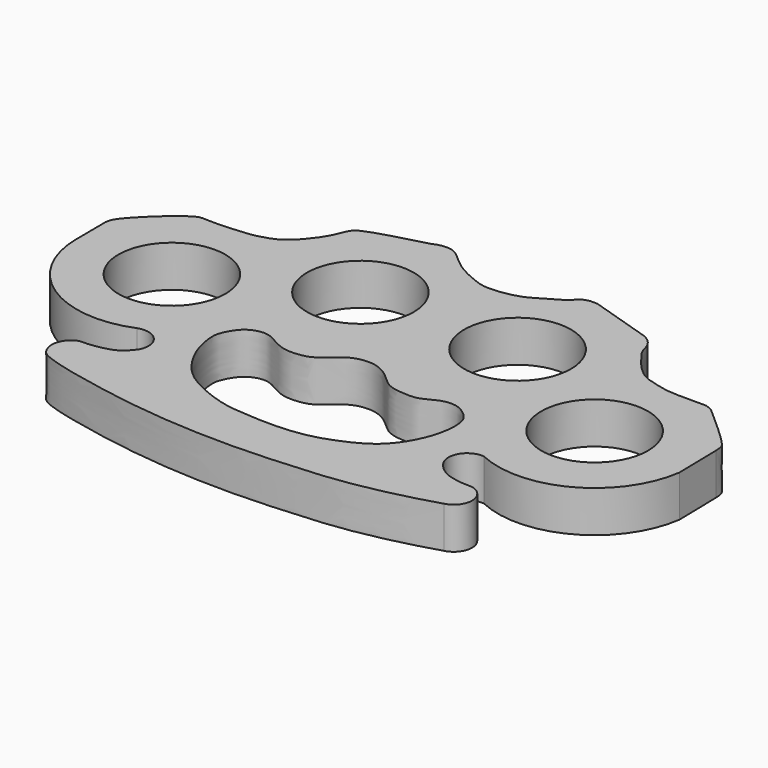
from build123d import *

# Parameters (mm, degrees)
F0_R     = 3.8567912685
F1_DEPTH = 3


with BuildPart() as f1:
    # F0 (on Top) → F1 (new body)
    with BuildSketch(Plane.XY):
        with BuildLine():
            ThreePointArc((-25.9771526895, 21.0119271317), (-19.6999655733, 21.2022285467), (-16.115821898, 26.3590887189))
            add(Edge.make_bspline(
                [(-16.115821898, 26.3590887189), (-16.1384263386, 27.4832521876), (-16.1610307793, 28.6074156562), (-16.1836352199, 29.7315791249)],
                knots=[0, 0, 0, 0, 3.3731721251, 3.3731721251, 3.3731721251, 3.3731721251], degree=3))
            add(Edge.make_bspline(
                [(-19.3007439375, 33.2715213299), (-18.0700993522, 32.1804676824), (-16.4255208402, 30.722432271), (-16.2133102596, 30.2324466098), (-16.1936377552, 29.9004060163), (-16.1836352199, 29.7315791249)],
                knots=[0, 0, 0, 0, 0.5937260104, 0.793428948, 1, 1, 1, 1], degree=3))
            add(Edge.make_bspline(
                [(-20.0515559807, 33.6875090438), (-19.916029695, 33.64699975), (-19.6412974963, 33.5648813084), (-19.4152708867, 33.3701772461), (-19.3007439375, 33.2715213299)],
                knots=[0, 0, 0, 0, 0.4933032469, 1, 1, 1, 1], degree=3))
            add(Edge.make_bspline(
                [(-22.8777279155, 33.7340211573), (-22.8285598176, 33.7342372438), (-22.3839427912, 33.7440973109), (-22.6056464016, 33.6609818041), (-20.0515559807, 33.6875090438)],
                knots=[0, 0, 0, 0, 0.222543604, 1, 1, 1, 1], degree=3))
            add(Edge.make_bspline(
                [(-28.0318181277, 38.1289668131), (-27.885579503, 38.0419167178), (-27.5717684918, 37.8558424276), (-27.1679861093, 37.3170411042), (-27.0636841023, 36.5993951411), (-26.5298108295, 35.9438109103), (-26.04259258, 35.2510476492), (-25.145599189, 34.3878453458), (-24.4156679301, 34.0908360657), (-23.6478093767, 33.8971786822), (-23.1120710748, 33.7644619594), (-22.8777279155, 33.7340211573)],
                knots=[0, 0, 0, 0, 0.0910051711, 0.1916958438, 0.2974400571, 0.4103444103, 0.5280405053, 0.6665276493, 0.7778500412, 0.8892103184, 1, 1, 1, 1], degree=3))
            Line((-28.0318181277, 38.1289668131), (-32.5968787074, 39.569105953))
            add(Edge.make_bspline(
                [(-35.3841260076, 38.1797887385), (-35.2615186276, 38.2435370226), (-34.9844024263, 38.387620375), (-34.3866068151, 38.7488474108), (-33.9578831384, 39.1055711589), (-33.7051209205, 39.4113621533), (-33.1889779829, 39.6145255131), (-32.7987523294, 39.5845915506), (-32.5968787074, 39.569105953)],
                knots=[0, 0, 0, 0, 0.1525987544, 0.3449024617, 0.5158873423, 0.6576886383, 0.8229136557, 1, 1, 1, 1], degree=3))
            add(Edge.make_bspline(
                [(-37.7446487546, 37.2827909887), (-37.5229239713, 37.3143557814), (-37.0407961569, 37.3829916113), (-36.1166488042, 37.7099439749), (-35.6240153609, 38.0259221872), (-35.3841260076, 38.1797887385)],
                knots=[0, 0, 0, 0, 0.3040297085, 0.6610951502, 1, 1, 1, 1], degree=3))
            add(Edge.make_bspline(
                [(-44.5660054684, 39.4146591425), (-44.3851368945, 39.4912636148), (-43.9849643088, 39.6607513766), (-42.9929451712, 39.6761147418), (-42.2377125029, 38.9596352111), (-41.2823053684, 38.1606793633), (-40.0529586964, 37.587055039), (-38.9572544588, 37.1608839563), (-38.1512341556, 37.2419156906), (-37.7446487546, 37.2827909887)],
                knots=[0, 0, 0, 0, 0.1094903172, 0.2422478511, 0.3814140014, 0.5370426705, 0.6988857374, 0.8481072217, 1, 1, 1, 1], degree=3))
            add(Edge.make_bspline(
                [(-60.5267161619, 30.008670075), (-60.5054835059, 30.2072237005), (-60.4351787479, 30.8646668696), (-57.0252366374, 33.9905779981), (-56.2763268445, 33.727376356), (-53.3958604186, 33.9080747099), (-52.6275539857, 34.0699431128), (-51.3123233921, 34.4727198584), (-50.2037704732, 35.7125629269), (-49.4870189281, 36.7774745073), (-49.1603036363, 37.8017794669), (-48.5566947453, 38.352468399), (-46.2242642081, 38.9732849935), (-44.5660054684, 39.4146591425)],
                knots=[0, 0, 0, 0, 0.0643762702, 0.2131602433, 0.2815210417, 0.3993643819, 0.4669000597, 0.5473029309, 0.6398144475, 0.722213966, 0.7933014634, 0.8530461468, 1, 1, 1, 1], degree=3))
            Line((-60.5267161619, 30.008670075), (-60.5061873794, 27.338899672))
            ThreePointArc((-60.5061873794, 27.338899672), (-57.4466231264, 21.6677325566), (-51.0362417716, 21.0119271317))
            ThreePointArc((-51.0362417716, 21.0119271317), (-49.501373663, 20.6133707527), (-49.3467085229, 19.0351610099))
            add(Edge.make_bspline(
                [(-49.3467085229, 19.0351610099), (-49.5461026549, 18.7836147364), (-49.9576655268, 18.2644063441), (-50.9515585522, 17.9005647956), (-52.1604289393, 17.7300941419), (-52.5948073856, 17.8107014442), (-53.1691975047, 17.4551415002), (-53.4467682035, 16.9887624586), (-53.5982596637, 16.4382538731), (-53.3624310439, 15.5930035036), (-52.5504810074, 14.8906956293), (-45.8015294803, 13.4854087449), (-40.5430124931, 13.1192482375), (-36.837366002, 13.1171807541), (-33.5826657841, 13.3261401584), (-30.2809056664, 13.5589090137), (-26.4896114415, 14.3688915818), (-24.8504029883, 14.863565011), (-24.1247480553, 15.0825501031)],
                knots=[0, 0, 0, 0, 0.0445148545, 0.0918816475, 0.1417631119, 0.1717647731, 0.2075518584, 0.2411338, 0.2751609932, 0.3154346714, 0.3592952395, 0.4773422196, 0.5869501259, 0.6733017378, 0.7548555211, 0.8388324969, 0.9286533733, 1, 1, 1, 1], degree=3))
            ThreePointArc((-24.1247480553, 15.0825501031), (-23.1118393247, 16.2623553277), (-23.9175000976, 17.5923309603))
            add(Edge.make_bspline(
                [(-25.5061425269, 17.7989043295), (-25.492587098, 17.7925584999), (-25.4572364145, 17.776009454), (-25.3268255567, 17.7601333929), (-25.0326253125, 17.7109308561), (-24.770787542, 17.7013283965), (-24.5322197006, 17.6948261153), (-24.3195460403, 17.6740095308), (-24.0917338654, 17.6780620928), (-23.9740334374, 17.6201479978), (-23.9175000976, 17.5923309603)],
                knots=[0, 0, 0, 0, 0.0629603965, 0.1641920045, 0.3211650011, 0.4700045892, 0.6081280609, 0.7406986712, 0.8754535529, 1, 1, 1, 1], degree=3))
            ThreePointArc((-25.5061425269, 17.7989043295), (-26.5035094621, 18.1834858334), (-27.2496449406, 18.9489435947))
            ThreePointArc((-27.2496449406, 18.9489435947), (-27.2530988173, 20.37501597), (-25.9771526895, 21.0119271317))
        make_face()
        with BuildLine():
            add(Edge.make_bspline(
                [(-40.9188978374, 24.5378706604), (-40.5214367804, 24.8004175443), (-39.6784853743, 25.679674624), (-38.6154101374, 25.996122209), (-37.5457359878, 25.9435576042), (-36.5072236207, 25.3258213354), (-35.5984325136, 24.321477237), (-34.3262790868, 24.1762888313), (-33.212512285, 24.1486128862), (-32.1328688946, 24.9144261095), (-31.001918463, 24.9422124058), (-30.2868408826, 24.5055966896), (-29.5301401791, 23.8105579818), (-29.5089181813, 22.153833793), (-30.0616433092, 20.3555678954), (-31.3698891104, 18.3576683594), (-33.6379646008, 17.2958902021), (-35.405718021, 16.7068464226), (-37.7172124328, 16.517888924), (-39.7589006408, 16.6460317587), (-41.5397504564, 16.7883809791), (-43.8456151451, 17.6809377325), (-45.5224537429, 18.7920876938), (-46.8585554102, 20.9991288754), (-47.1322460782, 22.783180438), (-47.0400590581, 23.3957378224), (-46.6801819108, 24.1533142459), (-46.0949752385, 24.8633115879), (-44.9049135755, 25.1826774557), (-44.0134678271, 24.6615383802), (-42.9911906834, 24.1130565002), (-41.7672174564, 24.1887990614), (-41.2165158248, 24.3412761166), (-40.9188978374, 24.5378706604)],
                knots=[0, 0, 0, 0, 0.03499993, 0.0634696348, 0.0907755778, 0.1203706211, 0.1515875988, 0.1816158762, 0.2099730011, 0.2407204059, 0.2687096751, 0.2931004479, 0.3194401412, 0.3531626374, 0.3907232746, 0.4322135057, 0.4745858988, 0.5118967714, 0.5529999067, 0.5918239383, 0.6281877857, 0.6703371211, 0.7090478657, 0.7525835495, 0.7883248419, 0.8091650548, 0.8333758949, 0.859411977, 0.8881433586, 0.9152976648, 0.9444550648, 0.9737921275, 1, 1, 1, 1], degree=3))
        make_face(mode=Mode.SUBTRACT)
        with Locations((-53.6222904921, 27.3918323219)):
            Circle(F0_R, mode=Mode.SUBTRACT)
        with Locations((-43.9356975257, 32.3145240545)):
            Circle(F0_R, mode=Mode.SUBTRACT)
        with Locations((-32.6611436903, 32.4203893542)):
            Circle(F0_R, mode=Mode.SUBTRACT)
        with Locations((-23.0274852365, 27.338899672)):
            Circle(F0_R, mode=Mode.SUBTRACT)
    extrude(amount=F1_DEPTH)


solid = f1.part
